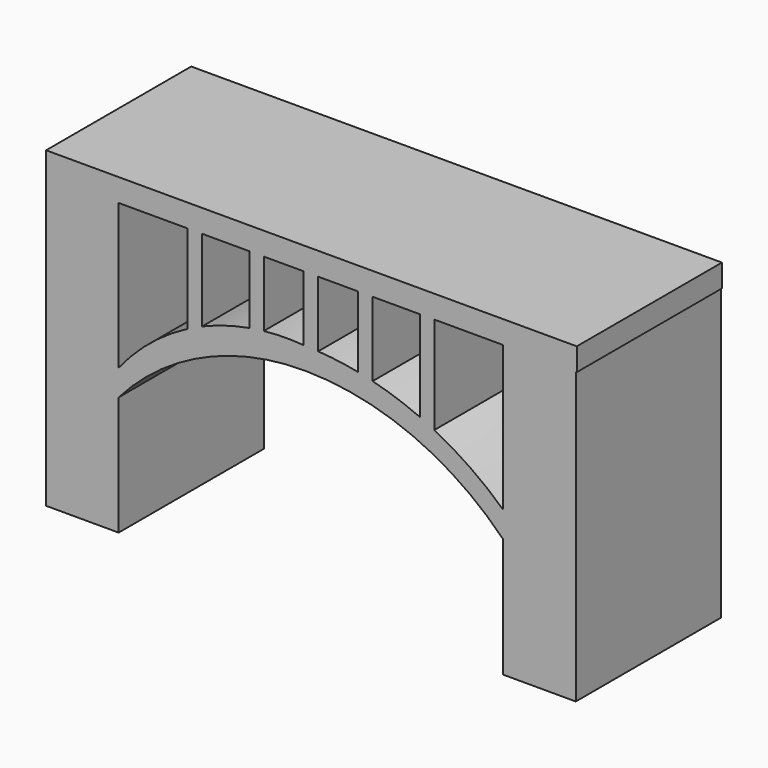
from build123d import *

# Parameters (mm, degrees)
F1_DEPTH = 25


with BuildPart() as f1:
    # F0 (on Front) → F1 (new body)
    with BuildSketch(Plane.XZ):
        Polygon((0, 40), (0, 0), (10, 0), (10, 16.411015), (10, 20), (10, 40), align=None)
        Polygon((0, 43.1385), (0, 40), (10, 40), (19.5, 40), (21.5, 40), (28, 40), (30, 40), (35.5, 40), (37.5, 40), (43, 40), (45, 40), (51.5, 40), (53.5, 40), (63, 40), (73, 40), (73.139102, 40), (73.139102, 43.1385), align=None)
        with BuildLine():
            Line((10, 20), (10, 16.411015))
            ThreePointArc((10, 16.411015), (21.618287, 25.028498), (35.775396, 27.998665))
            ThreePointArc((35.775396, 27.998665), (50.544325, 24.922279), (63, 16.411015))
            Line((63, 16.411015), (63, 20))
            ThreePointArc((63, 20), (58.481135, 23.629165), (53.5, 26.592148))
            ThreePointArc((53.5, 26.592148), (52.50628, 27.076179), (51.5, 27.533526))
            ThreePointArc((51.5, 27.533526), (48.296273, 28.782507), (45, 29.761491))
            ThreePointArc((45, 29.761491), (44.002799, 30.000044), (43, 30.213845))
            ThreePointArc((43, 30.213845), (40.262113, 30.667436), (37.5, 30.936698))
            ThreePointArc((37.5, 30.936698), (36.638083, 30.982645), (35.775396, 31.010624))
            ThreePointArc((35.775396, 31.010624), (35.637725, 31.022742), (35.5, 31.034216))
            ThreePointArc((35.5, 31.034216), (32.748414, 31.128367), (30, 30.966153))
            ThreePointArc((30, 30.966153), (28.997598, 30.842626), (28, 30.684934))
            ThreePointArc((28, 30.684934), (24.694455, 29.906357), (21.5, 28.753853))
            ThreePointArc((21.5, 28.753853), (20.491167, 28.300406), (19.5, 27.809542))
            ThreePointArc((19.5, 27.809542), (14.339456, 24.404182), (10, 20))
        make_face()
        Polygon((63, 20), (63, 16.411015), (63, 0), (73, 0), (73, 40), (63, 40), align=None)
        with BuildLine():
            Line((21.5, 40), (19.5, 40))
            Line((19.5, 40), (19.5, 27.809542))
            ThreePointArc((19.5, 27.809542), (20.491167, 28.300406), (21.5, 28.753853))
            Line((21.5, 28.753853), (21.5, 40))
        make_face()
        with BuildLine():
            Line((30, 40), (28, 40))
            Line((28, 40), (28, 30.684934))
            ThreePointArc((28, 30.684934), (28.997598, 30.842626), (30, 30.966153))
            Line((30, 30.966153), (30, 40))
        make_face()
        with BuildLine():
            Line((37.5, 40), (35.5, 40))
            Line((35.5, 40), (35.5, 31.034216))
            ThreePointArc((35.5, 31.034216), (35.637725, 31.022742), (35.775396, 31.010624))
            ThreePointArc((35.775396, 31.010624), (36.638083, 30.982645), (37.5, 30.936698))
            Line((37.5, 30.936698), (37.5, 31.010624))
            Line((37.5, 31.010624), (37.5, 40))
        make_face()
        with BuildLine():
            ThreePointArc((43, 30.213845), (44.002799, 30.000044), (45, 29.761491))
            Line((45, 29.761491), (45, 40))
            Line((45, 40), (43, 40))
            Line((43, 40), (43, 30.213845))
        make_face()
        with BuildLine():
            ThreePointArc((51.5, 27.533526), (52.50628, 27.076179), (53.5, 26.592148))
            Line((53.5, 26.592148), (53.5, 27.998665))
            Line((53.5, 27.998665), (53.5, 40))
            Line((53.5, 40), (51.5, 40))
            Line((51.5, 40), (51.5, 27.998665))
            Line((51.5, 27.998665), (51.5, 27.533526))
        make_face()
    extrude(amount=F1_DEPTH)


solid = f1.part
